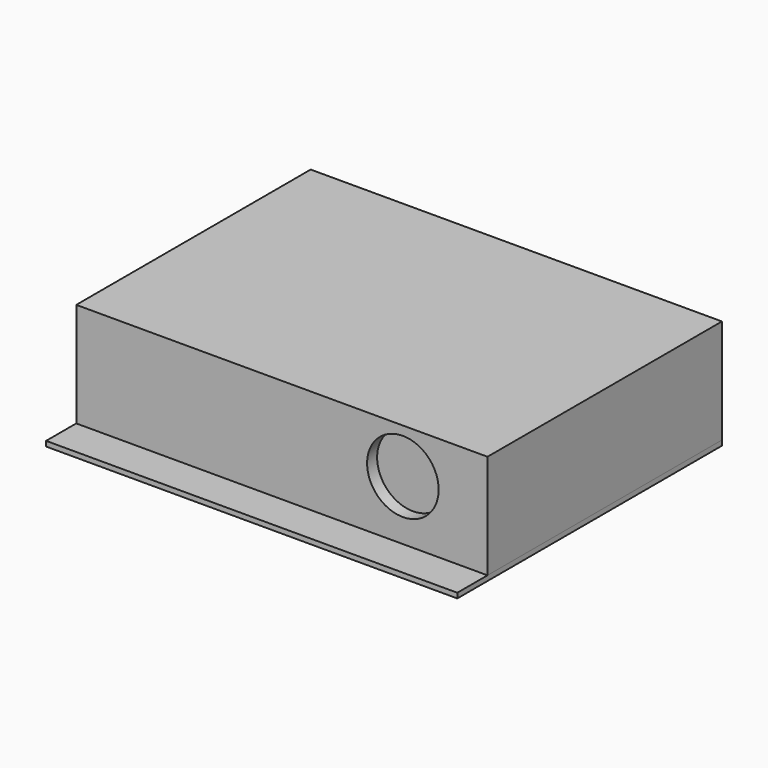
from build123d import *

# Parameters (mm, degrees)
F0_W           = 327
F0_H           = 83
F1_DEPTH       = 233
F2_R           = 28.45
F3_DEPTH       = 10
F4_W           = 327
F4_H           = 263
F5_DEPTH       = 4
F7_D           = 5
F7_CSINK_D     = 5.5
F7_CSINK_ANGLE = 90
F8_D           = 5


with BuildPart() as f1:
    # F0 (on Front) → F1 (new body)
    with BuildSketch(Plane.XZ):
        with Locations((0, 41.5)):
            Rectangle(F0_W, F0_H)
    extrude(amount=-F1_DEPTH)

    # F2 (on face) → F3 (cut)
    with BuildSketch(Plane.XZ):
        with Locations((96.2, 47.32)):
            Circle(F2_R)
    extrude(amount=-F3_DEPTH, mode=Mode.SUBTRACT)


with BuildPart() as f5:
    # F4 (on face) → F5 (new body)
    with BuildSketch(Plane(origin=(0, 0, 0), x_dir=(1, 0, 0), z_dir=(0, 0, -1))):
        with Locations((0, -101.5)):
            Rectangle(F4_W, F4_H)
    extrude(amount=F5_DEPTH)

    # F7 (through all)
    with Locations(Plane(origin=(0, 0, -4), x_dir=(1, 0, 0), z_dir=(0, 0, -1))):
        with Locations((142.5, -185), (44.5, -38), (-150.5, -51), (15.5, -154)):
            CounterSinkHole(F7_D / 2, F7_CSINK_D / 2, counter_sink_angle=F7_CSINK_ANGLE)

    # F8 (through all)
    with Locations(Plane.XY):
        with Locations((-30, 156.5), (30, 156.5), (30, 76.5), (-30, 76.5)):
            Hole(F8_D / 2)


solid = Compound([f1.part, f5.part])
